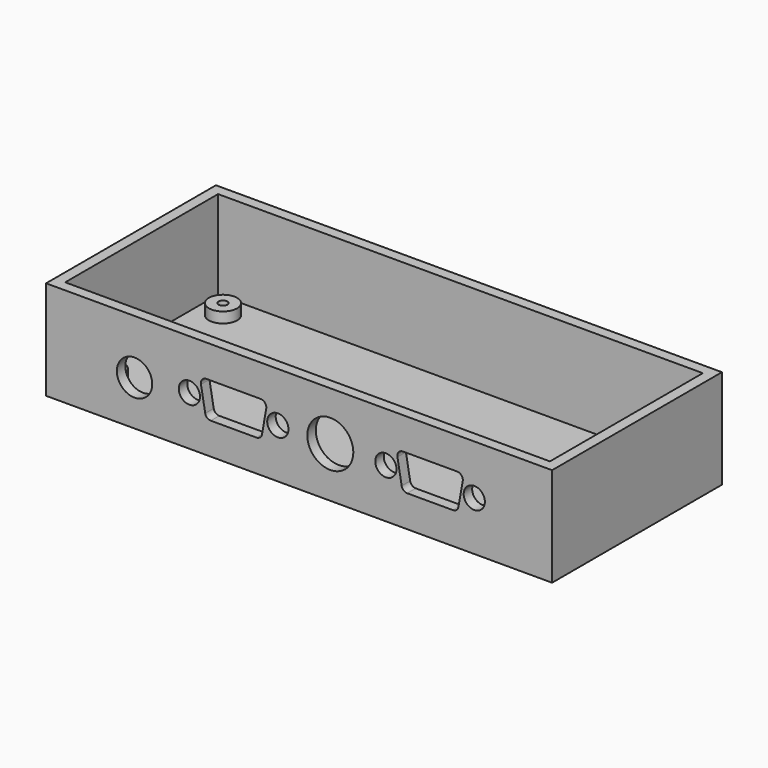
from build123d import *

# Parameters (mm, degrees)
SKETCH_W        = 143
SKETCH_H        = 60
PAD_DEPTH       = 28
SKETCH002_W     = 137
SKETCH002_H     = 54
POCKET_DEPTH    = 25.001
SKETCH001_R     = 4
PAD001_DEPTH    = 6
SKETCH003_R     = 1.25
POCKET001_DEPTH = 28.001
SKETCH004_R     = 3.25
SKETCH004_R_2   = 3
SKETCH004_R_3   = 4.75
POCKET002_DEPTH = 5
SKETCH005_R     = 5
SKETCH005_R_2   = 6.5
POCKET003_DEPTH = 5


with BuildPart() as part:
    # Sketch → Pad (new body)
    with BuildSketch(Plane.XY):
        with Locations((71.5, 30)):
            Rectangle(SKETCH_W, SKETCH_H)
    extrude(amount=PAD_DEPTH)

    # Sketch002 → Pocket (cut, through all)
    with BuildSketch(Plane.XY.offset(3)):
        with Locations((71.5, 30)):
            Rectangle(SKETCH002_W, SKETCH002_H)
    extrude(amount=POCKET_DEPTH, mode=Mode.SUBTRACT)

    # Sketch001 → Pad001 (join)
    with BuildSketch(Plane.XY):
        with Locations((10, 50)):
            Circle(SKETCH001_R)
        with Locations((10, 10)):
            Circle(SKETCH001_R)
        with Locations((133, 50)):
            Circle(SKETCH001_R)
        with Locations((133, 10)):
            Circle(SKETCH001_R)
    extrude(amount=PAD001_DEPTH)

    # Sketch003 → Pocket001 (cut, through all)
    with BuildSketch(Plane.XY):
        with Locations((10, 10)):
            Circle(SKETCH003_R)
        with Locations((133, 10)):
            Circle(SKETCH003_R)
        with Locations((133, 50)):
            Circle(SKETCH003_R)
        with Locations((10, 50)):
            Circle(SKETCH003_R)
    extrude(amount=POCKET001_DEPTH, mode=Mode.SUBTRACT)

    # Sketch004 → Pocket002 (cut)
    with BuildSketch(Plane.XZ):
        with Locations((25, 12.67)):
            Circle(SKETCH004_R)
        with Locations((40.505, 13.9525)):
            Circle(SKETCH004_R_2)
        with Locations((65.495, 13.9525)):
            Circle(SKETCH004_R_2)
        with Locations((80.327, 14.17)):
            Circle(SKETCH004_R_3)
        with Locations((96.026, 13.9525)):
            Circle(SKETCH004_R_2)
        with Locations((121.016, 13.9525)):
            Circle(SKETCH004_R_2)
        with BuildLine():
            Line((46.549023, 8.9525), (59.450977, 8.9525))
            ThreePointArc((59.450977, 8.9525), (60.479437, 9.326829), (61.026669, 10.274663))
            Line((62.225692, 17.074663), (61.026669, 10.274663))
            ThreePointArc((62.225692, 17.074663), (61.875671, 18.38096), (60.65, 18.9525))
            Line((60.65, 18.9525), (45.35, 18.9525))
            ThreePointArc((45.35, 18.9525), (44.124329, 18.38096), (43.774308, 17.074663))
            Line((43.774308, 17.074663), (44.973331, 10.274663))
            ThreePointArc((44.973331, 10.274663), (45.520563, 9.326829), (46.549023, 8.9525))
        make_face()
        with BuildLine():
            Line((102.070023, 8.9525), (114.971977, 8.9525))
            ThreePointArc((114.971977, 8.9525), (116.000437, 9.326829), (116.547669, 10.274663))
            Line((117.746692, 17.074663), (116.547669, 10.274663))
            ThreePointArc((117.746692, 17.074663), (117.396671, 18.38096), (116.171, 18.9525))
            Line((116.171, 18.9525), (100.871, 18.9525))
            ThreePointArc((100.871, 18.9525), (99.645329, 18.38096), (99.295308, 17.074663))
            Line((99.295308, 17.074663), (100.494331, 10.274663))
            ThreePointArc((100.494331, 10.274663), (101.041563, 9.326829), (102.070023, 8.9525))
        make_face()
    extrude(amount=-POCKET002_DEPTH, mode=Mode.SUBTRACT)

    # Sketch005 → Pocket003 (cut)
    with BuildSketch(Plane.XZ):
        with Locations((25, 12.67)):
            Circle(SKETCH005_R)
        with Locations((80.327, 14.17)):
            Circle(SKETCH005_R_2)
    extrude(amount=-POCKET003_DEPTH, mode=Mode.SUBTRACT)


solid = part.part
